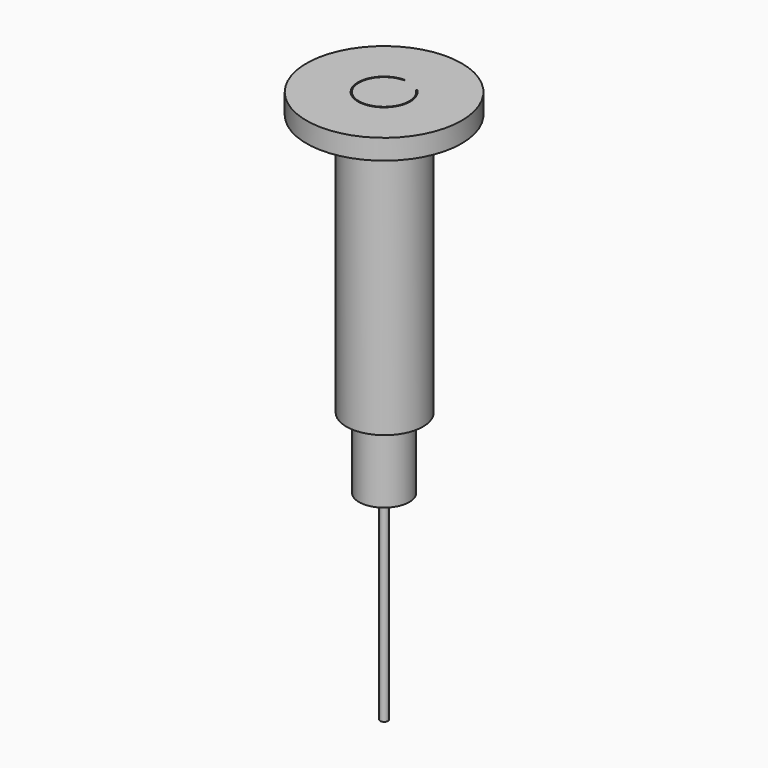
from build123d import *

# Parameters (mm, degrees)
F0_R          = 1.2446
F0_R_2        = 0.19812
F1_DEPTH      = 10.16
F2_R          = 0.1905
F3_DEPTH      = 9.906
F5_DEPTH      = 6.35
F5_DEPTH_BACK = 3.81
F10_R         = 3.85
F11_DEPTH     = 1
F13_R         = 1.9
F13_R_2       = 1.6
F14_DEPTH     = 13


with BuildPart() as f1:
    # F0 (on Top) → F1 (new body)
    with BuildSketch(Plane.XY):
        Circle(F0_R)
        Circle(F0_R_2, mode=Mode.SUBTRACT)
    extrude(amount=F1_DEPTH)


with BuildPart() as f3:
    # F2 (on Top) → F3 (new body)
    with BuildSketch(Plane.XY):
        Circle(F2_R)
    extrude(amount=-F3_DEPTH)


with BuildPart() as f5:
    # F4 (on face) → F5 (new body, two sides)
    with BuildSketch(Plane.XY.offset(10.16)) as f5_sk:
        with BuildLine():
            ThreePointArc((0.871144, 0.888897), (-0.471549, -1.15486), (0, 1.2446))
            Line((0, 1.2446), (2.3e-05, 1.2954))
            ThreePointArc((2.3e-05, 1.2954), (-0.490753, -1.20189), (0.906685, 0.925194))
            Line((0.906685, 0.925194), (0.871144, 0.888897))
        make_face()
    extrude(amount=F5_DEPTH)
    extrude(f5_sk.sketch, amount=-F5_DEPTH_BACK)


with BuildPart() as f7:
    # F6 (on Front) → F7 (revolve)
    with BuildSketch(Plane.XZ):
        with BuildLine():
            ThreePointArc((0, 12.709577), (-1.243077, 11.4665), (0, 10.223423))
            Line((0, 10.223423), (0, 12.709577))
        make_face()
    revolve(axis=Axis((0, 0, 11.4665), (0, 0, 1)))


with BuildPart() as f9:
    # F8 (on Front) → F9 (revolve)
    with BuildSketch(Plane.XZ):
        with BuildLine():
            Line((0, 15.246193), (0, 12.758371))
            ThreePointArc((0, 12.758371), (1.243911, 14.002282), (0, 15.246193))
        make_face()
    revolve(axis=Axis((0, 0, 14.002282), (0, 0, 1)))


with BuildPart() as f11:
    # F10 (on face) → F11 (new body)
    with BuildSketch(Plane.XY.offset(16.51)):
        with Locations((-0.000554, -0.001356)):
            Circle(F10_R)
        with BuildLine():
            ThreePointArc((0, 1.2446), (-0.471549, -1.15486), (0.871144, 0.888897))
            Line((0.871144, 0.888897), (0.906685, 0.925194))
            ThreePointArc((0.906685, 0.925194), (-0.490753, -1.20189), (2.3e-05, 1.2954))
            Line((2.3e-05, 1.2954), (0, 1.2446))
        make_face(mode=Mode.SUBTRACT)
    extrude(amount=F11_DEPTH)

    # F13 (on face) → F14 (join)
    with BuildSketch(Plane(origin=(0, 0, 16.51), x_dir=(1, 0, 0), z_dir=(0, 0, -1))):
        with Locations((0.021651, -0.009226)):
            Circle(F13_R)
        with Locations((-0.000554, 0.001356)):
            Circle(F13_R_2, mode=Mode.SUBTRACT)
    extrude(amount=F14_DEPTH)


solid = Compound([f1.part, f3.part, f5.part, f7.part, f9.part, f11.part])
